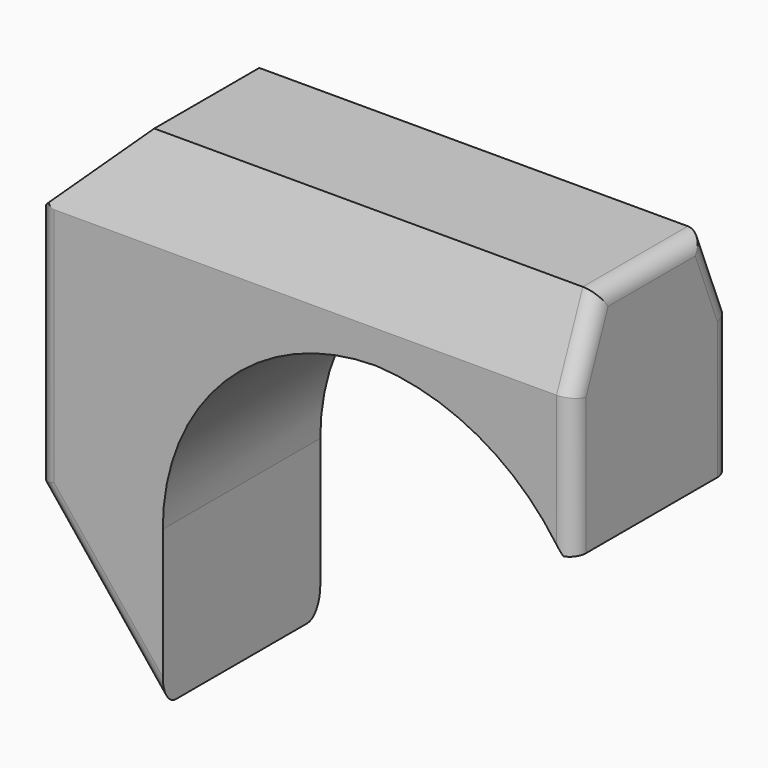
from build123d import *

# Parameters (mm, degrees)
F1_DEPTH = 60
F2_SIZE2 = 25
F2_SIZE  = 10
F3_R     = 5


with BuildPart() as f1:
    # F0 (on Front) → F1 (new body)
    with BuildSketch(Plane.XZ):
        with BuildLine():
            Line((125, 32.1942828596), (125, 75))
            Line((125, 75), (125, 100))
            Line((125, 100), (-10.5827422813, 100))
            Line((-10.5827422813, 100), (-38.1556677818, 73.0981135368))
            Line((-38.1556677818, 73.0981135368), (-38.1556677818, 0))
            Line((-38.1556677818, 0), (0, -47.6187802851))
            Line((0, -47.6187802851), (0, 0))
            ThreePointArc((0, 0), (19.0380592229, 45.9619407771), (65, 65))
            ThreePointArc((65, 65), (97.417599338, 55.5490608419), (121.8056157231, 32.1942828596))
            Line((121.8056157231, 32.1942828596), (125, 32.1942828596))
        make_face()
    extrude(amount=F1_DEPTH)

    # F2
    f2_edges = [f1.edges().sort_by_distance(p)[0] for p in [
        (57.208629, -60, 100),
        (57.208629, 0, 100),
    ]]
    f2_side = f1.faces().sort_by_distance((57.208629, -30, 100))[0]
    chamfer(f2_edges, length=F2_SIZE, length2=F2_SIZE2, reference=f2_side)

    # F3
    f3_edges = [f1.edges().sort_by_distance(p)[0] for p in [
        (125, -30, 100),
        (125, -60, 53.597141),
        (125, 0, 53.597141),
        (-38.155668, -60, 36.549057),
        (-38.155668, 0, 36.549057),
        (-19.077834, 0, -23.80939),
        (-19.077834, -60, -23.80939),
        (125, -5, 87.5),
        (125, -55, 87.5),
    ]]
    fillet(f3_edges, radius=F3_R)


solid = f1.part
